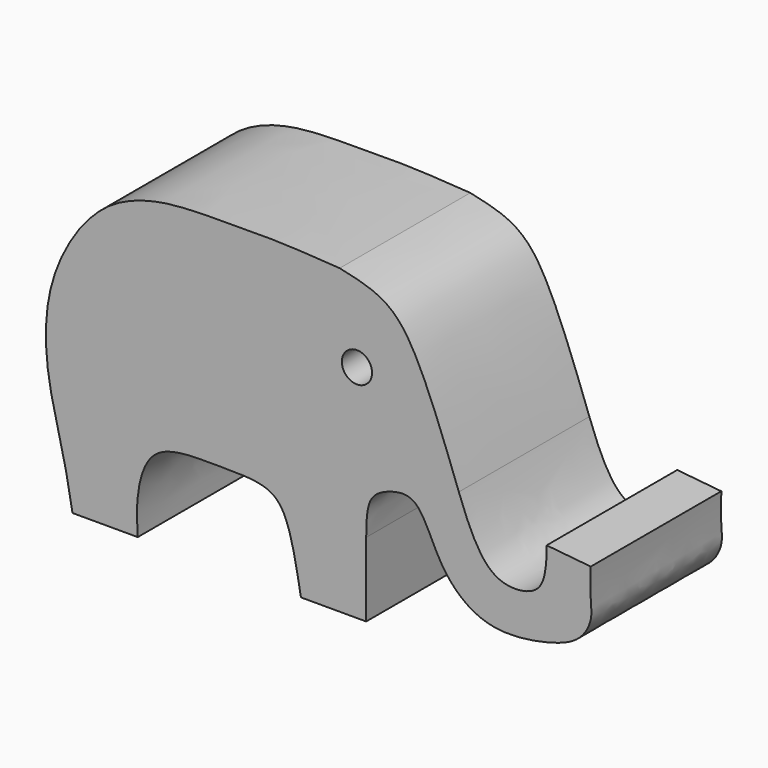
from build123d import *

# Parameters (mm, degrees)
F1_DEPTH = 25.4
F3_R     = 2.3521556201
F4_DEPTH = 50.8


with BuildPart() as f1:
    # F0 (on Front) → F1 (new body)
    with BuildSketch(Plane.XZ):
        with BuildLine():
            add(Edge.make_bspline(
                [(-35.56, 0), (-36.0108472067, 2.8017230028), (-37.1239172059, 8.5309822801), (-39.7201263679, 17.6448280058), (-39.9417126472, 28.1337006), (-36.4389539296, 37.2164327725), (-30.2648319391, 44.6963820544), (-21.5662804304, 47.5525220031), (-12.4655243139, 47.5702293027), (-3.7255018647, 47.7181484376), (2.7240717282, 47.2945096317), (6.0387579836, 47.0767857383)],
                knots=[0, 0, 0, 0, 0.1069055442, 0.2192298104, 0.3362117535, 0.4492315637, 0.5604025496, 0.668533391, 0.7780491926, 0.8859012174, 1, 1, 1, 1], degree=3))
            Line((-35.56, 0), (-25.4, 0))
            add(Edge.make_bspline(
                [(-25.4, 0), (-25.5336205433, 1.7597589677), (-25.7464014002, 5.5017840412), (-23.6556648226, 14.0260179901), (-13.5149625168, 13.7728058351), (-5.73728982, 13.9551634865), (-1.9020122718, 10.9354151858), (-0.7325949548, 4.2078423822), (0, 0)],
                knots=[0, 0, 0, 0, 0.1460763919, 0.3124973969, 0.4990733955, 0.6707531758, 0.794497249, 1, 1, 1, 1], degree=3))
            Line((0, 0), (10.16, 0))
            add(Edge.make_bspline(
                [(10.16, 11.5310730746), (10.16, 9.0920519822), (10.16, 4.6744889218), (10.16, 1.4459850909), (10.16, 0)],
                knots=[0, 0, 0, 0, 0.5521191342, 1, 1, 1, 1], degree=3))
            add(Edge.make_bspline(
                [(45.1108962297, 18.8946332783), (45.0734211978, 17.3447527363), (45.0056599217, 14.5423032688), (45.4549295767, 11.6160815435), (43.503156592, 7.9984354804), (38.4028100641, 6.0532508862), (28.708352557, 4.5865232253), (21.2916002611, 10.801056071), (18.5642767742, 20.1084257558), (13.4357851894, 19.0728956927), (10.2269291514, 17.2370741966), (10.1840964989, 13.585404364), (10.16, 11.5310730746)],
                knots=[0, 0, 0, 0, 0.0905765011, 0.1637778271, 0.2454228866, 0.3452274483, 0.4768765258, 0.608469702, 0.7344514868, 0.8205872473, 0.899067208, 1, 1, 1, 1], degree=3))
            Line((45.1108962297, 18.8946332783), (38.2528603077, 19.5774883032))
            Line((38.2528603077, 19.5774883032), (38.2528603077, 18.2280905355))
            add(Edge.make_bspline(
                [(24.5788693428, 22.4446151406), (25.1987196683, 20.7878167071), (26.4314559172, 17.4928349963), (29.3095621055, 12.7698276845), (33.4215060835, 11.6378084642), (37.8451179834, 12.9372318588), (38.1113396263, 16.3917201605), (38.2528603077, 18.2280905355)],
                knots=[0, 0, 0, 0, 0.2151239707, 0.4278308905, 0.6126498305, 0.7940886424, 1, 1, 1, 1], degree=3))
            add(Edge.make_bspline(
                [(6.0387579836, 47.0767857383), (7.8826510979, 46.6768760046), (11.5189809539, 45.8882165684), (16.1484184125, 42.776033407), (20.4688363078, 33.6411675743), (23.1575239774, 26.3166443371), (24.5788693428, 22.4446151406)],
                knots=[0, 0, 0, 0, 0.2084462759, 0.4110755719, 0.6886715345, 1, 1, 1, 1], degree=3))
        make_face()
    extrude(amount=F1_DEPTH)

    # F3 (on offset) → F4 (cut)
    with BuildSketch(Plane.XZ.offset(25.4)):
        with Locations((8.7202144787, 34.3714989722)):
            Circle(F3_R)
    extrude(amount=-F4_DEPTH, mode=Mode.SUBTRACT)


solid = f1.part
